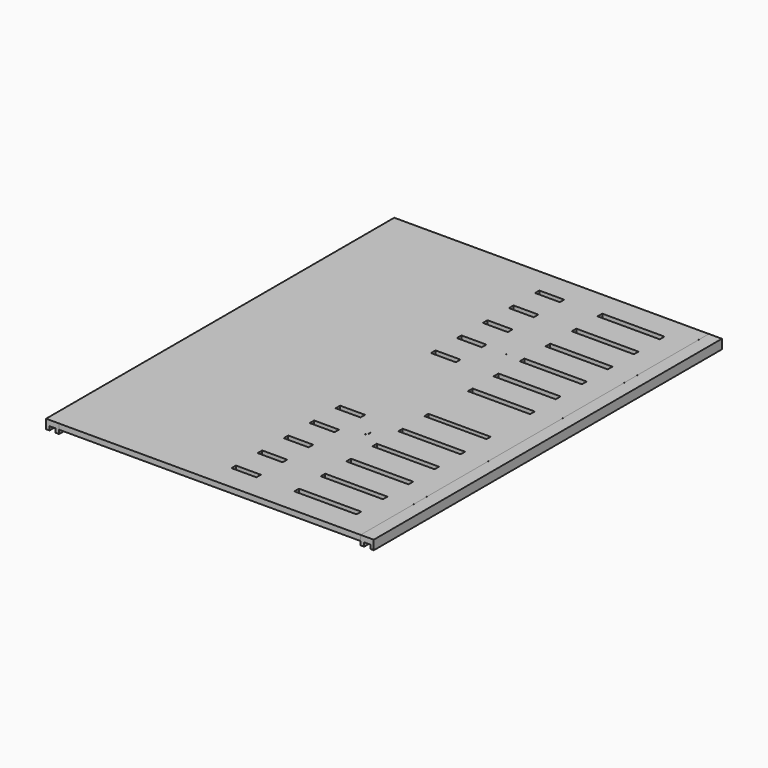
from build123d import *

# Parameters (mm, degrees)
CYLINDER057_R             = 2.5
CYLINDER057_DEPTH         = 7.5
CYLINDER058_R             = 2.5
CYLINDER058_DEPTH         = 7.5
SKETCH003_W               = 194
SKETCH003_H               = 280
SKETCH003_R               = 2.5
SKETCH003_W_2             = 40.070037
SKETCH003_H_2             = 3.742279
SKETCH003_W_3             = 40.041212
SKETCH003_H_3             = 3.613129
SKETCH003_W_4             = 40.041216
SKETCH003_H_4             = 3.782791
SKETCH003_W_5             = 40.041217
SKETCH003_H_5             = 3.546326
SKETCH003_W_6             = 40.112851
SKETCH003_H_6             = 3.561458
SKETCH003_W_7             = 40.04122
SKETCH003_H_7             = 3.290631
SKETCH003_W_8             = 40.009301
SKETCH003_H_8             = 3.763773
SKETCH003_W_9             = 39.996402
SKETCH003_H_9             = 3.935853
SKETCH003_W_10            = 40.055051
SKETCH003_H_10            = 3.782642
SKETCH003_H_11            = 3.806805
SKETCH003_W_11            = 40.041219
SKETCH003_H_12            = 3.677757
SKETCH003_H_13            = 3.782761
SKETCH003_W_12            = 16.037044
SKETCH003_H_14            = 3.589706
SKETCH003_W_13            = 16.068943
SKETCH003_H_15            = 3.697831
SKETCH003_W_14            = 15.989025
SKETCH003_H_16            = 3.592186
SKETCH003_W_15            = 16.03704
SKETCH003_H_17            = 3.644962
SKETCH003_W_16            = 16.06895
SKETCH003_H_18            = 3.697864
SKETCH003_H_19            = 3.697834
SKETCH003_W_17            = 16.068947
SKETCH003_H_20            = 3.750667
SKETCH003_W_18            = 16.010303
SKETCH003_H_21            = 3.719536
SKETCH003_W_19            = 16.017021
SKETCH003_H_22            = 3.484192
EXTRUDE003_DEPTH          = 3.5
BOX114_W                  = 4
BOX114_H                  = 280
BOX114_DEPTH              = 3.5
BOX116_W                  = 2.2
BOX116_H                  = 280
BOX116_DEPTH              = 6
BOX115_W                  = 2.2
BOX115_H                  = 280
BOX115_DEPTH              = 6
BOX117_W                  = 4
BOX117_H                  = 280
BOX117_DEPTH              = 3.5
BOX119_W                  = 2.2
BOX119_H                  = 280
BOX119_DEPTH              = 6
BOX118_W                  = 2.2
BOX118_H                  = 280
BOX118_DEPTH              = 6
FUSION063_PLACEMENT_ANGLE = 180


with BuildPart() as cylinder057:
    # Cylinder057 → Cylinder057 (new body)
    with BuildSketch(Plane(origin=(-43.9, -39.2, 0), x_dir=(1, 0, 0), z_dir=(0, 0, 1))):
        Circle(CYLINDER057_R)
    extrude(amount=CYLINDER057_DEPTH)


with BuildPart() as cylinder058:
    # Cylinder058 → Cylinder058 (new body)
    with BuildSketch(Plane(origin=(-43.9, 71.8, 0), x_dir=(1, 0, 0), z_dir=(0, 0, 1))):
        Circle(CYLINDER058_R)
    extrude(amount=CYLINDER058_DEPTH)


with BuildPart() as plate004:
    # Sketch003 → Extrude003 (new body)
    with BuildSketch(Plane.XY):
        with Locations((-72.853731, 20.822565)):
            Rectangle(SKETCH003_W, SKETCH003_H)
        with Locations((-43.853731, 71.822565)):
            Circle(SKETCH003_R, mode=Mode.SUBTRACT)
        with Locations((-43.853731, -39.177435)):
            Circle(SKETCH003_R, mode=Mode.SUBTRACT)
        with Locations((-11.460887, 142.774628)):
            Rectangle(SKETCH003_W_2, SKETCH003_H_2, mode=Mode.SUBTRACT)
        with Locations((-11.331136, 121.740501)):
            Rectangle(SKETCH003_W_3, SKETCH003_H_3, mode=Mode.SUBTRACT)
        with Locations((-11.464432, 100.989097)):
            Rectangle(SKETCH003_W_4, SKETCH003_H_4, mode=Mode.SUBTRACT)
        with Locations((-11.468796, 80.086075)):
            Rectangle(SKETCH003_W_5, SKETCH003_H_5, mode=Mode.SUBTRACT)
        with Locations((-11.467992, 59.173418)):
            Rectangle(SKETCH003_W_6, SKETCH003_H_6, mode=Mode.SUBTRACT)
        with Locations((-11.56887, 38.323995)):
            Rectangle(SKETCH003_W_7, SKETCH003_H_7, mode=Mode.SUBTRACT)
        with Locations((-11.437161, 3.188404)):
            Rectangle(SKETCH003_W_8, SKETCH003_H_8, mode=Mode.SUBTRACT)
        with Locations((-11.504416, -17.581663)):
            Rectangle(SKETCH003_W_9, SKETCH003_H_9, mode=Mode.SUBTRACT)
        with Locations((-11.430497, -38.487215)):
            Rectangle(SKETCH003_W_10, SKETCH003_H_10, mode=Mode.SUBTRACT)
        with Locations((-11.445175, -59.249788)):
            Rectangle(SKETCH003_W_5, SKETCH003_H_11, mode=Mode.SUBTRACT)
        with Locations((-11.417095, -80.225971)):
            Rectangle(SKETCH003_W_11, SKETCH003_H_12, mode=Mode.SUBTRACT)
        with Locations((-11.448836, -101.098243)):
            Rectangle(SKETCH003_W_11, SKETCH003_H_13, mode=Mode.SUBTRACT)
        with Locations((-63.903541, 142.81797)):
            Rectangle(SKETCH003_W_12, SKETCH003_H_14, mode=Mode.SUBTRACT)
        with Locations((-63.830264, 121.801971)):
            Rectangle(SKETCH003_W_13, SKETCH003_H_15, mode=Mode.SUBTRACT)
        with Locations((-63.791866, 100.945217)):
            Rectangle(SKETCH003_W_13, SKETCH003_H_12, mode=Mode.SUBTRACT)
        with Locations((-63.886082, 80.001514)):
            Rectangle(SKETCH003_W_14, SKETCH003_H_16, mode=Mode.SUBTRACT)
        with Locations((-63.768631, 59.263056)):
            Rectangle(SKETCH003_W_15, SKETCH003_H_17, mode=Mode.SUBTRACT)
        with Locations((-63.860941, -17.577925)):
            Rectangle(SKETCH003_W_16, SKETCH003_H_18, mode=Mode.SUBTRACT)
        with Locations((-63.880459, -38.44348)):
            Rectangle(SKETCH003_W_13, SKETCH003_H_19, mode=Mode.SUBTRACT)
        with Locations((-63.985134, -59.494722)):
            Rectangle(SKETCH003_W_17, SKETCH003_H_20, mode=Mode.SUBTRACT)
        with Locations((-63.874309, -80.230259)):
            Rectangle(SKETCH003_W_18, SKETCH003_H_21, mode=Mode.SUBTRACT)
        with Locations((-63.871902, -101.148766)):
            Rectangle(SKETCH003_W_19, SKETCH003_H_22, mode=Mode.SUBTRACT)
    extrude(amount=EXTRUDE003_DEPTH)

    # Fusion060: union Cylinder057, Cylinder058
    add(cylinder057.part)
    add(cylinder058.part)


with BuildPart() as cube114:
    # Box114 → Box114 (new body)
    with BuildSketch(Plane(origin=(26.35, -119.2, 0), x_dir=(1, 0, 0), z_dir=(0, 0, 1))):
        with Locations((2, 140)):
            Rectangle(BOX114_W, BOX114_H)
    extrude(amount=BOX114_DEPTH)


with BuildPart() as cube116:
    # Box116 → Box116 (new body)
    with BuildSketch(Plane(origin=(30.35, -119.2, 0), x_dir=(1, 0, 0), z_dir=(0, 0, 1))):
        with Locations((1.1, 140)):
            Rectangle(BOX116_W, BOX116_H)
    extrude(amount=BOX116_DEPTH)


with BuildPart() as fusion061:
    # Box115 → Box115 (new body)
    with BuildSketch(Plane(origin=(24.15, -119.2, 0), x_dir=(1, 0, 0), z_dir=(0, 0, 1))):
        with Locations((1.1, 140)):
            Rectangle(BOX115_W, BOX115_H)
    extrude(amount=BOX115_DEPTH)

    # Fusion061: union Cube114, Cube116
    add(cube114.part)
    add(cube116.part)


with BuildPart() as cube117:
    # Box117 → Box117 (new body)
    with BuildSketch(Plane(origin=(26.35, -119.2, 0), x_dir=(1, 0, 0), z_dir=(0, 0, 1))):
        with Locations((2, 140)):
            Rectangle(BOX117_W, BOX117_H)
    extrude(amount=BOX117_DEPTH)


with BuildPart() as cube119:
    # Box119 → Box119 (new body)
    with BuildSketch(Plane(origin=(30.35, -119.2, 0), x_dir=(1, 0, 0), z_dir=(0, 0, 1))):
        with Locations((1.1, 140)):
            Rectangle(BOX119_W, BOX119_H)
    extrude(amount=BOX119_DEPTH)


with BuildPart() as plate002:
    # Box118 → Box118 (new body)
    with BuildSketch(Plane(origin=(24.15, -119.2, 0), x_dir=(1, 0, 0), z_dir=(0, 0, 1))):
        with Locations((1.1, 140)):
            Rectangle(BOX118_W, BOX118_H)
    extrude(amount=BOX118_DEPTH)

    # Fusion062: union Cube117, Cube119
    add(cube117.part)
    add(cube119.part)


with BuildPart() as plate002_1:
    # Fusion062 placement: moved
    add(plate002.part.moved(Location((-202.4, 0, 0))))

    # Fusion063: union plate004, Fusion061
    add(plate004.part)
    add(fusion061.part)


with BuildPart() as plate002_2:
    # Fusion063 placement: moved
    add(plate002_1.part.moved(Location((0, 41.6, 123.5))).rotate(Axis((0, 41.6, 123.5), (1, 0, 0)), FUSION063_PLACEMENT_ANGLE))


solid = plate002_2.part
